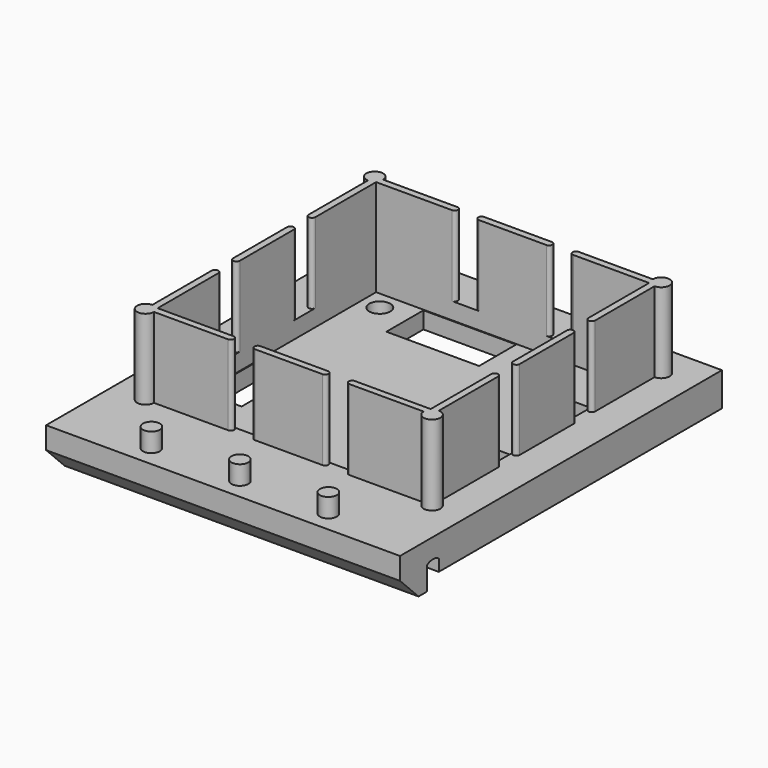
from build123d import *

# Parameters (mm, degrees)
F0_W     = 42
F0_H     = 42
F0_R     = 1.25
F0_W_2   = 4.5
F0_H_2   = 8
F0_W_3   = 4.4
F0_W_4   = 11
F0_H_3   = 5.5
F0_W_5   = 5.5
F0_H_4   = 7
F2_DEPTH = 4
F3_DEPTH = 21
F4_DEPTH = 21
F5_DEPTH = 9.5
F6_R     = 1
F7_DEPTH = 2.25
F8_DEPTH = 2


with BuildPart() as f2:
    # F0 (on Top) → F2 (new body)
    with BuildSketch(Plane.XY):
        with BuildLine():
            Line((16.2, 16.2), (16.2, 7.2))
            ThreePointArc((16.2, 7.2), (16.6, 6.8), (17, 7.2))
            Line((17, 7.2), (17, 16))
            ThreePointArc((17, 16), (17.707107, 17.707107), (16, 17))
            Line((16, 17), (7.2, 17))
            ThreePointArc((7.2, 17), (6.8, 16.6), (7.2, 16.2))
            Line((7.2, 16.2), (16.2, 16.2))
        make_face()
        with BuildLine():
            ThreePointArc((17, -7.2), (16.6, -6.8), (16.2, -7.2))
            Line((16.2, -7.2), (16.2, -16.2))
            Line((16.2, -16.2), (7.2, -16.2))
            ThreePointArc((7.2, -16.2), (6.8, -16.6), (7.2, -17))
            Line((7.2, -17), (16, -17))
            ThreePointArc((16, -17), (17.707107, -17.707107), (17, -16))
            Line((17, -16), (17, -7.2))
        make_face()
        with BuildLine():
            Line((-16.2, 16.2), (-7.2, 16.2))
            ThreePointArc((-7.2, 16.2), (-6.8, 16.6), (-7.2, 17))
            Line((-7.2, 17), (-16, 17))
            ThreePointArc((-16, 17), (-17.707107, 17.707107), (-17, 16))
            Line((-17, 16), (-17, 7.2))
            ThreePointArc((-17, 7.2), (-16.6, 6.8), (-16.2, 7.2))
            Line((-16.2, 7.2), (-16.2, 16.2))
        make_face()
        with BuildLine():
            ThreePointArc((-7.2, -17), (-6.8, -16.6), (-7.2, -16.2))
            Line((-7.2, -16.2), (-16.2, -16.2))
            Line((-16.2, -16.2), (-16.2, -7.2))
            ThreePointArc((-16.2, -7.2), (-16.6, -6.8), (-17, -7.2))
            Line((-17, -7.2), (-17, -16))
            ThreePointArc((-17, -16), (-17.707107, -17.707107), (-16, -17))
            Line((-16, -17), (-7.2, -17))
        make_face()
        Rectangle(F0_W, F0_H)
        with BuildLine():
            ThreePointArc((16.2, 4), (16.6, 4.4), (17, 4))
            Line((17, 4), (17, -4))
            ThreePointArc((17, -4), (16.6, -4.4), (16.2, -4))
            Line((16.2, -4), (16.2, -7.2))
            ThreePointArc((16.2, -7.2), (16.6, -6.8), (17, -7.2))
            Line((17, -7.2), (17, -16))
            ThreePointArc((17, -16), (17.707107, -17.707107), (16, -17))
            Line((16, -17), (7.2, -17))
            ThreePointArc((7.2, -17), (6.8, -16.6), (7.2, -16.2))
            Line((7.2, -16.2), (4, -16.2))
            ThreePointArc((4, -16.2), (4.4, -16.6), (4, -17))
            Line((4, -17), (-4, -17))
            ThreePointArc((-4, -17), (-4.4, -16.6), (-4, -16.2))
            Line((-4, -16.2), (-7.2, -16.2))
            ThreePointArc((-7.2, -16.2), (-6.8, -16.6), (-7.2, -17))
            Line((-7.2, -17), (-16, -17))
            ThreePointArc((-16, -17), (-17.707107, -17.707107), (-17, -16))
            Line((-17, -16), (-17, -7.2))
            ThreePointArc((-17, -7.2), (-16.6, -6.8), (-16.2, -7.2))
            Line((-16.2, -7.2), (-16.2, -4))
            ThreePointArc((-16.2, -4), (-16.6, -4.4), (-17, -4))
            Line((-17, -4), (-17, 4))
            ThreePointArc((-17, 4), (-16.6, 4.4), (-16.2, 4))
            Line((-16.2, 4), (-16.2, 7.2))
            ThreePointArc((-16.2, 7.2), (-16.6, 6.8), (-17, 7.2))
            Line((-17, 7.2), (-17, 16))
            ThreePointArc((-17, 16), (-17.707107, 17.707107), (-16, 17))
            Line((-16, 17), (-7.2, 17))
            ThreePointArc((-7.2, 17), (-6.8, 16.6), (-7.2, 16.2))
            Line((-7.2, 16.2), (-4, 16.2))
            ThreePointArc((-4, 16.2), (-4.4, 16.6), (-4, 17))
            Line((-4, 17), (4, 17))
            ThreePointArc((4, 17), (4.4, 16.6), (4, 16.2))
            Line((4, 16.2), (7.2, 16.2))
            ThreePointArc((7.2, 16.2), (6.8, 16.6), (7.2, 17))
            Line((7.2, 17), (16, 17))
            ThreePointArc((16, 17), (17.707107, 17.707107), (17, 16))
            Line((17, 16), (17, 7.2))
            ThreePointArc((17, 7.2), (16.6, 6.8), (16.2, 7.2))
            Line((16.2, 7.2), (16.2, 4))
        make_face(mode=Mode.SUBTRACT)
        Rectangle(F0_W, F0_H)
        with BuildLine():
            ThreePointArc((16.2, 4), (16.6, 4.4), (17, 4))
            Line((17, 4), (17, -4))
            ThreePointArc((17, -4), (16.6, -4.4), (16.2, -4))
            Line((16.2, -4), (16.2, -7.2))
            ThreePointArc((16.2, -7.2), (16.6, -6.8), (17, -7.2))
            Line((17, -7.2), (17, -16))
            ThreePointArc((17, -16), (17.707107, -17.707107), (16, -17))
            Line((16, -17), (7.2, -17))
            ThreePointArc((7.2, -17), (6.8, -16.6), (7.2, -16.2))
            Line((7.2, -16.2), (4, -16.2))
            ThreePointArc((4, -16.2), (4.4, -16.6), (4, -17))
            Line((4, -17), (-4, -17))
            ThreePointArc((-4, -17), (-4.4, -16.6), (-4, -16.2))
            Line((-4, -16.2), (-7.2, -16.2))
            ThreePointArc((-7.2, -16.2), (-6.8, -16.6), (-7.2, -17))
            Line((-7.2, -17), (-16, -17))
            ThreePointArc((-16, -17), (-17.707107, -17.707107), (-17, -16))
            Line((-17, -16), (-17, -7.2))
            ThreePointArc((-17, -7.2), (-16.6, -6.8), (-16.2, -7.2))
            Line((-16.2, -7.2), (-16.2, -4))
            ThreePointArc((-16.2, -4), (-16.6, -4.4), (-17, -4))
            Line((-17, -4), (-17, 4))
            ThreePointArc((-17, 4), (-16.6, 4.4), (-16.2, 4))
            Line((-16.2, 4), (-16.2, 7.2))
            ThreePointArc((-16.2, 7.2), (-16.6, 6.8), (-17, 7.2))
            Line((-17, 7.2), (-17, 16))
            ThreePointArc((-17, 16), (-17.707107, 17.707107), (-16, 17))
            Line((-16, 17), (-7.2, 17))
            ThreePointArc((-7.2, 17), (-6.8, 16.6), (-7.2, 16.2))
            Line((-7.2, 16.2), (-4, 16.2))
            ThreePointArc((-4, 16.2), (-4.4, 16.6), (-4, 17))
            Line((-4, 17), (4, 17))
            ThreePointArc((4, 17), (4.4, 16.6), (4, 16.2))
            Line((4, 16.2), (7.2, 16.2))
            ThreePointArc((7.2, 16.2), (6.8, 16.6), (7.2, 17))
            Line((7.2, 17), (16, 17))
            ThreePointArc((16, 17), (17.707107, 17.707107), (17, 16))
            Line((17, 16), (17, 7.2))
            ThreePointArc((17, 7.2), (16.6, 6.8), (16.2, 7.2))
            Line((16.2, 7.2), (16.2, 4))
        make_face(mode=Mode.SUBTRACT)
        with BuildLine():
            Line((-4, 16.2), (4, 16.2))
            ThreePointArc((4, 16.2), (4.4, 16.6), (4, 17))
            Line((4, 17), (-4, 17))
            ThreePointArc((-4, 17), (-4.4, 16.6), (-4, 16.2))
        make_face()
        with BuildLine():
            Line((16.2, 16.2), (16.2, 7.2))
            ThreePointArc((16.2, 7.2), (16.6, 6.8), (17, 7.2))
            Line((17, 7.2), (17, 16))
            ThreePointArc((17, 16), (17.707107, 17.707107), (16, 17))
            Line((16, 17), (7.2, 17))
            ThreePointArc((7.2, 17), (6.8, 16.6), (7.2, 16.2))
            Line((7.2, 16.2), (16.2, 16.2))
        make_face()
        with BuildLine():
            Line((-16.2, 16.2), (-7.2, 16.2))
            ThreePointArc((-7.2, 16.2), (-6.8, 16.6), (-7.2, 17))
            Line((-7.2, 17), (-16, 17))
            ThreePointArc((-16, 17), (-17.707107, 17.707107), (-17, 16))
            Line((-17, 16), (-17, 7.2))
            ThreePointArc((-17, 7.2), (-16.6, 6.8), (-16.2, 7.2))
            Line((-16.2, 7.2), (-16.2, 16.2))
        make_face()
        with BuildLine():
            Line((-16.2, -4), (-16.2, 4))
            ThreePointArc((-16.2, 4), (-16.6, 4.4), (-17, 4))
            Line((-17, 4), (-17, -4))
            ThreePointArc((-17, -4), (-16.6, -4.4), (-16.2, -4))
        make_face()
        with BuildLine():
            Line((17, -4), (17, 4))
            ThreePointArc((17, 4), (16.6, 4.4), (16.2, 4))
            Line((16.2, 4), (16.2, -4))
            ThreePointArc((16.2, -4), (16.6, -4.4), (17, -4))
        make_face()
        with BuildLine():
            ThreePointArc((17, -7.2), (16.6, -6.8), (16.2, -7.2))
            Line((16.2, -7.2), (16.2, -16.2))
            Line((16.2, -16.2), (7.2, -16.2))
            ThreePointArc((7.2, -16.2), (6.8, -16.6), (7.2, -17))
            Line((7.2, -17), (16, -17))
            ThreePointArc((16, -17), (17.707107, -17.707107), (17, -16))
            Line((17, -16), (17, -7.2))
        make_face()
        with BuildLine():
            ThreePointArc((-7.2, -17), (-6.8, -16.6), (-7.2, -16.2))
            Line((-7.2, -16.2), (-16.2, -16.2))
            Line((-16.2, -16.2), (-16.2, -7.2))
            ThreePointArc((-16.2, -7.2), (-16.6, -6.8), (-17, -7.2))
            Line((-17, -7.2), (-17, -16))
            ThreePointArc((-17, -16), (-17.707107, -17.707107), (-16, -17))
            Line((-16, -17), (-7.2, -17))
        make_face()
        with BuildLine():
            ThreePointArc((4, -17), (4.4, -16.6), (4, -16.2))
            Line((4, -16.2), (-4, -16.2))
            ThreePointArc((-4, -16.2), (-4.4, -16.6), (-4, -17))
            Line((-4, -17), (4, -17))
        make_face()
        Polygon((16.2, -4), (16.2, 4), (16.2, 7.2), (16.2, 16.2), (7.2, 16.2), (4, 16.2), (-4, 16.2), (-7.2, 16.2), (-16.2, 16.2), (-16.2, 7.2), (-16.2, 4), (-16.2, -4), (-16.2, -7.2), (-16.2, -16.2), (-7.2, -16.2), (-4, -16.2), (4, -16.2), (7.2, -16.2), (16.2, -16.2), (16.2, -7.2), align=None)
        with Locations((-14, -14)):
            Circle(F0_R, mode=Mode.SUBTRACT)
        with Locations((-13.85, -5.5)):
            Rectangle(F0_W_2, F0_H_2, mode=Mode.SUBTRACT)
        with Locations((14, -14)):
            Circle(F0_R, mode=Mode.SUBTRACT)
        with Locations((13.9, -5.5)):
            Rectangle(F0_W_3, F0_H_2, mode=Mode.SUBTRACT)
        with Locations((-14, 14)):
            Circle(F0_R, mode=Mode.SUBTRACT)
        with Locations((-5, 13.35)):
            Rectangle(F0_W_4, F0_H_3, mode=Mode.SUBTRACT)
        with Locations((13.35, 7)):
            Rectangle(F0_W_5, F0_H_4, mode=Mode.SUBTRACT)
        with Locations((14, 14)):
            Circle(F0_R, mode=Mode.SUBTRACT)
    extrude(amount=-F2_DEPTH)

    # F1 (on Right) → F3 (join)
    with BuildSketch(Plane.YZ):
        with BuildLine():
            Line((-21, -2.6), (-21, 0))
            Line((-21, 0), (-22.75, 0))
            Line((-22.75, 0), (-26.75, 0))
            Line((-26.75, 0), (-26.75, -2.6))
            Line((-26.75, -2.6), (-24, -5.35))
            Line((-24, -5.35), (-22.75, -5.35))
            Line((-22.75, -5.35), (-22.75, -2.6))
            ThreePointArc((-22.75, -2.6), (-21.875, -2.318349), (-21, -2.6))
        make_face()
    extrude(amount=F3_DEPTH)

    # F3_face (on face) → F4 (join)
    with BuildSketch(Plane(origin=(0, -24.007396, -2.086833), x_dir=(0, 1, 0), z_dir=(-1, 0, 0))):
        with BuildLine():
            Line((3.007396, -2.086833), (3.007396, 0.513167))
            ThreePointArc((3.007396, 0.513167), (2.132396, 0.231516), (1.257396, 0.513167))
            Line((1.257396, 0.513167), (1.257396, 3.263167))
            Line((1.257396, 3.263167), (0.007396, 3.263167))
            Line((0.007396, 3.263167), (-2.742604, 0.513167))
            Line((-2.742604, 0.513167), (-2.742604, -2.086833))
            Line((-2.742604, -2.086833), (3.007396, -2.086833))
        make_face()
    extrude(amount=F4_DEPTH)

    # F0 (on Top) → F5 (join)
    with BuildSketch(Plane.XY):
        with BuildLine():
            Line((-16.2, 16.2), (-7.2, 16.2))
            ThreePointArc((-7.2, 16.2), (-6.8, 16.6), (-7.2, 17))
            Line((-7.2, 17), (-16, 17))
            ThreePointArc((-16, 17), (-17.707107, 17.707107), (-17, 16))
            Line((-17, 16), (-17, 7.2))
            ThreePointArc((-17, 7.2), (-16.6, 6.8), (-16.2, 7.2))
            Line((-16.2, 7.2), (-16.2, 16.2))
        make_face()
        with BuildLine():
            Line((-16.2, -4), (-16.2, 4))
            ThreePointArc((-16.2, 4), (-16.6, 4.4), (-17, 4))
            Line((-17, 4), (-17, -4))
            ThreePointArc((-17, -4), (-16.6, -4.4), (-16.2, -4))
        make_face()
        with BuildLine():
            ThreePointArc((-7.2, -17), (-6.8, -16.6), (-7.2, -16.2))
            Line((-7.2, -16.2), (-16.2, -16.2))
            Line((-16.2, -16.2), (-16.2, -7.2))
            ThreePointArc((-16.2, -7.2), (-16.6, -6.8), (-17, -7.2))
            Line((-17, -7.2), (-17, -16))
            ThreePointArc((-17, -16), (-17.707107, -17.707107), (-16, -17))
            Line((-16, -17), (-7.2, -17))
        make_face()
        with BuildLine():
            Line((-4, 16.2), (4, 16.2))
            ThreePointArc((4, 16.2), (4.4, 16.6), (4, 17))
            Line((4, 17), (-4, 17))
            ThreePointArc((-4, 17), (-4.4, 16.6), (-4, 16.2))
        make_face()
        with BuildLine():
            Line((16.2, 16.2), (16.2, 7.2))
            ThreePointArc((16.2, 7.2), (16.6, 6.8), (17, 7.2))
            Line((17, 7.2), (17, 16))
            ThreePointArc((17, 16), (17.707107, 17.707107), (16, 17))
            Line((16, 17), (7.2, 17))
            ThreePointArc((7.2, 17), (6.8, 16.6), (7.2, 16.2))
            Line((7.2, 16.2), (16.2, 16.2))
        make_face()
        with BuildLine():
            Line((17, -4), (17, 4))
            ThreePointArc((17, 4), (16.6, 4.4), (16.2, 4))
            Line((16.2, 4), (16.2, -4))
            ThreePointArc((16.2, -4), (16.6, -4.4), (17, -4))
        make_face()
        with BuildLine():
            ThreePointArc((4, -17), (4.4, -16.6), (4, -16.2))
            Line((4, -16.2), (-4, -16.2))
            ThreePointArc((-4, -16.2), (-4.4, -16.6), (-4, -17))
            Line((-4, -17), (4, -17))
        make_face()
        with BuildLine():
            ThreePointArc((17, -7.2), (16.6, -6.8), (16.2, -7.2))
            Line((16.2, -7.2), (16.2, -16.2))
            Line((16.2, -16.2), (7.2, -16.2))
            ThreePointArc((7.2, -16.2), (6.8, -16.6), (7.2, -17))
            Line((7.2, -17), (16, -17))
            ThreePointArc((16, -17), (17.707107, -17.707107), (17, -16))
            Line((17, -16), (17, -7.2))
        make_face()
    extrude(amount=F5_DEPTH)

    # F6 (on face) → F7 (join)
    with BuildSketch(Plane.XY):
        with Locations((-10.5, -24.25)):
            Circle(F6_R)
        with Locations((0, -24.25)):
            Circle(F6_R)
        with Locations((10.5, -24.25)):
            Circle(F6_R)
    extrude(amount=F7_DEPTH)

    # F0 (on Top) → F8 (cut)
    with BuildSketch(Plane.XY):
        Polygon((16.2, -4), (16.2, 4), (16.2, 7.2), (16.2, 16.2), (7.2, 16.2), (4, 16.2), (-4, 16.2), (-7.2, 16.2), (-16.2, 16.2), (-16.2, 7.2), (-16.2, 4), (-16.2, -4), (-16.2, -7.2), (-16.2, -16.2), (-7.2, -16.2), (-4, -16.2), (4, -16.2), (7.2, -16.2), (16.2, -16.2), (16.2, -7.2), align=None)
        with Locations((-14, -14)):
            Circle(F0_R, mode=Mode.SUBTRACT)
        with Locations((-13.85, -5.5)):
            Rectangle(F0_W_2, F0_H_2, mode=Mode.SUBTRACT)
        with Locations((14, -14)):
            Circle(F0_R, mode=Mode.SUBTRACT)
        with Locations((13.9, -5.5)):
            Rectangle(F0_W_3, F0_H_2, mode=Mode.SUBTRACT)
        with Locations((-14, 14)):
            Circle(F0_R, mode=Mode.SUBTRACT)
        with Locations((-5, 13.35)):
            Rectangle(F0_W_4, F0_H_3, mode=Mode.SUBTRACT)
        with Locations((13.35, 7)):
            Rectangle(F0_W_5, F0_H_4, mode=Mode.SUBTRACT)
        with Locations((14, 14)):
            Circle(F0_R, mode=Mode.SUBTRACT)
    extrude(amount=-F8_DEPTH, mode=Mode.SUBTRACT)


solid = f2.part
